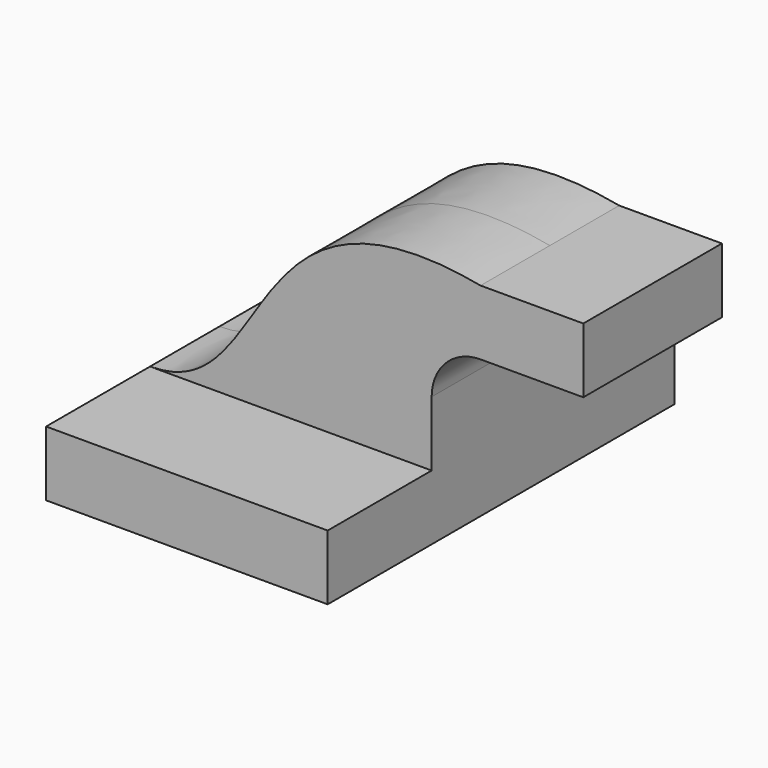
from build123d import *

# Parameters (mm, degrees)
F1_DEPTH = 63.5
F0_W     = 25.196091
F0_H     = 19.05
F2_DEPTH = 25.4


with BuildPart() as f1:
    # F0 (on Front) → F1 (new body, symmetric)
    with BuildSketch(Plane.XZ):
        Polygon((22.225, 9.525), (-41.275, 9.525), (-41.275, -9.525), (41.275, -9.525), (41.275, 9.525), align=None)
    extrude(amount=F1_DEPTH, both=True)

    # F0 (on Front) → F2 (join, symmetric)
    with BuildSketch(Plane.XZ):
        with BuildLine():
            Line((22.225, 28.545261), (22.225, 9.525))
            Line((22.225, 9.525), (41.275, 9.525))
            Line((41.275, 9.525), (41.275, 28.545261))
            ThreePointArc((41.275, 28.545261), (45.472142, 38.678058), (55.604939, 42.8752))
            Line((55.604939, 42.8752), (60.528909, 42.8752))
            Line((60.528909, 42.8752), (60.528909, 61.9252))
            Line((60.528909, 61.9252), (55.604939, 61.9252))
            ThreePointArc((55.604939, 61.9252), (32.001758, 52.148442), (22.225, 28.545261))
        make_face()
        with Locations((73.126954, 52.4002)):
            Rectangle(F0_W, F0_H)
        with BuildLine():
            add(Edge.make_bspline(
                [(-41.275, 9.525), (-4.208209, 9.525), (-15.882595, 75.476266), (55.604939, 61.9252)],
                knots=[0, 0, 0, 0, 110.143105, 110.143105, 110.143105, 110.143105], degree=3))
            Line((-41.275, 9.525), (22.225, 9.525))
            Line((22.225, 9.525), (22.225, 28.545261))
            ThreePointArc((22.225, 28.545261), (32.001758, 52.148442), (55.604939, 61.9252))
        make_face()
    extrude(amount=F2_DEPTH, both=True)


solid = f1.part
